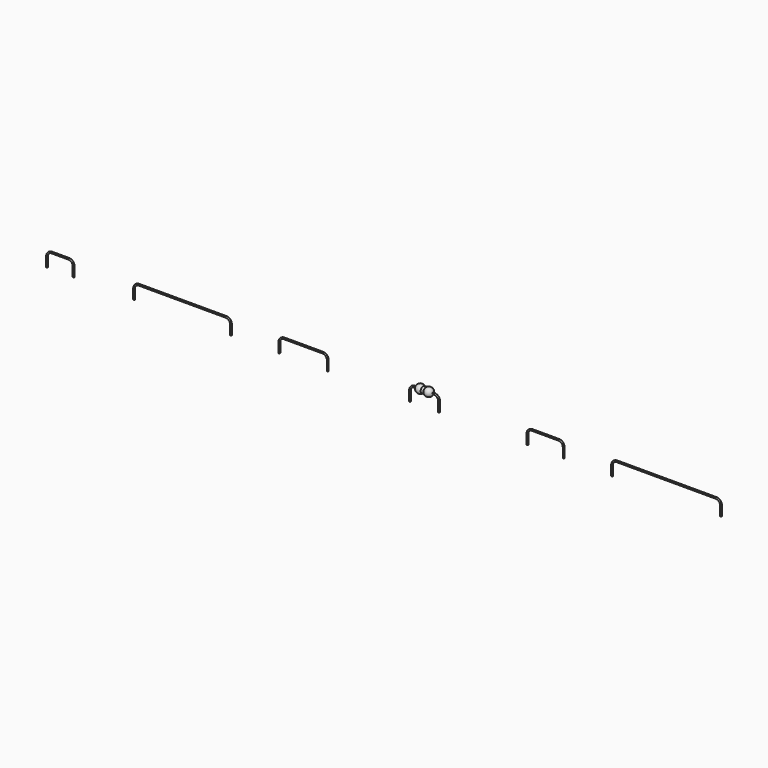
from build123d import *

# Parameters (mm, degrees)
F3_R  = 0.15
F9_R  = 0.15
F10_R = 0.15
F17_R = 0.15
F18_R = 0.15
F23_R = 0.15


with BuildPart() as f1:
    # F0 (on Front) → F1 (revolve)
    with BuildSketch(Plane.XZ):
        with BuildLine():
            ThreePointArc((-0.2892312743, 0.65), (-1.2307227607, 0.7994287445), (-1.75, 0))
            Line((-1.75, 0), (-0.875, 0))
            Line((-0.875, 0), (-0.875, 0.65))
            Line((-0.875, 0.65), (-0.2892312743, 0.65))
        make_face()
        with BuildLine():
            Line((-0.875, 0), (0, 0))
            ThreePointArc((0, 0), (-0.0755712555, 0.3557227607), (-0.2892312743, 0.65))
            Line((-0.2892312743, 0.65), (-0.875, 0.65))
            Line((-0.875, 0.65), (-0.875, 0))
        make_face()
        with BuildLine():
            Line((0, 0), (0.875, 0))
            Line((0.875, 0), (0.875, 0.65))
            Line((0.875, 0.65), (0.2892312743, 0.65))
            ThreePointArc((0.2892312743, 0.65), (0.0755712555, 0.3557227607), (0, 0))
        make_face()
        with BuildLine():
            Line((0.875, 0.65), (0.875, 0))
            Line((0.875, 0), (1.75, 0))
            ThreePointArc((1.75, 0), (1.2307227607, 0.7994287445), (0.2892312743, 0.65))
            Line((0.2892312743, 0.65), (0.875, 0.65))
        make_face()
        with BuildLine():
            ThreePointArc((-0.2892312743, 0.65), (-0.0755712555, 0.3557227607), (0, 0))
            ThreePointArc((0, 0), (0.0755712555, 0.3557227607), (0.2892312743, 0.65))
            Line((0.2892312743, 0.65), (-0.2892312743, 0.65))
        make_face()
    revolve(axis=Axis((0, 0, 0), (1, 0, 0)))


with BuildPart() as f4:
    # F4: sweep along a path in F2
    with BuildLine(Plane.XZ) as f4_path:
        Line((3, -3), (3, -1))
        ThreePointArc((3, -1), (2.7071067812, -0.2928932188), (2, 0))
        Line((2, 0), (0, 0))
        Line((0, 0), (-2, 0))
        ThreePointArc((-2, 0), (-2.7071067812, -0.2928932188), (-3, -1))
        Line((-3, -1), (-3, -3))
    # F3 (on Right) → F4 (sweep)
    with BuildSketch(Plane.YZ):
        Circle(F3_R)
    sweep(path=f4_path.line)


with BuildPart() as f11:
    # F11: sweep along a path in F7
    with BuildLine(Plane.XZ) as f11_path:
        Line((21.25, -3), (21.25, -1))
        ThreePointArc((21.25, -1), (21.5428932188, -0.2928932188), (22.25, 0))
        Line((22.25, 0), (25, 0))
        Line((25, 0), (27.75, 0))
        ThreePointArc((27.75, 0), (28.4571067812, -0.2928932188), (28.75, -1))
        Line((28.75, -1), (28.75, -3))
    # F9 (on offset) → F11 (sweep)
    with BuildSketch(Plane.YZ.offset(25)):
        Circle(F9_R)
    sweep(path=f11_path.line)


with BuildPart() as f12:
    # F12: sweep along a path in F8
    with BuildLine(Plane.XZ) as f12_path:
        Line((38.75, -3), (38.75, -1))
        ThreePointArc((38.75, -1), (39.0428932188, -0.2928932188), (39.75, 0))
        Line((39.75, 0), (50, 0))
        Line((50, 0), (60.25, 0))
        ThreePointArc((60.25, 0), (60.9571067812, -0.2928932188), (61.25, -1))
        Line((61.25, -1), (61.25, -3))
    # F10 (on offset) → F12 (sweep)
    with BuildSketch(Plane.YZ.offset(50)):
        Circle(F10_R)
    sweep(path=f12_path.line)


with BuildPart() as f19:
    # F19: sweep along a path in F15
    with BuildLine(Plane.XZ) as f19_path:
        Line((-30, -3), (-30, -1))
        ThreePointArc((-30, -1), (-29.7071067812, -0.2928932188), (-29, 0))
        Line((-29, 0), (-25, 0))
        Line((-25, 0), (-21, 0))
        ThreePointArc((-21, 0), (-20.2928932188, -0.2928932188), (-20, -1))
        Line((-20, -1), (-20, -3))
    # F17 (on offset) → F19 (sweep)
    with BuildSketch(Plane.YZ.offset(-25)):
        Circle(F17_R)
    sweep(path=f19_path.line)


with BuildPart() as f20:
    # F20: sweep along a path in F16
    with BuildLine(Plane.XZ) as f20_path:
        Line((-60, -3), (-60, -1))
        ThreePointArc((-60, -1), (-59.7071067812, -0.2928932188), (-59, 0))
        Line((-59, 0), (-50, 0))
        Line((-50, 0), (-41, 0))
        ThreePointArc((-41, 0), (-40.2928932188, -0.2928932188), (-40, -1))
        Line((-40, -1), (-40, -3))
    # F18 (on offset) → F20 (sweep)
    with BuildSketch(Plane.YZ.offset(-50)):
        Circle(F18_R)
    sweep(path=f20_path.line)


with BuildPart() as f24:
    # F24: sweep along a path in F22
    with BuildLine(Plane.XZ) as f24_path:
        Line((-78, -3), (-78, -1))
        ThreePointArc((-78, -1), (-77.7071067812, -0.2928932188), (-77, 0))
        Line((-77, 0), (-75, 0))
        Line((-75, 0), (-73.5, 0))
        ThreePointArc((-73.5, 0), (-72.7928932188, -0.2928932188), (-72.5, -1))
        Line((-72.5, -1), (-72.5, -3))
    # F23 (on offset) → F24 (sweep)
    with BuildSketch(Plane.YZ.offset(-75)):
        Circle(F23_R)
    sweep(path=f24_path.line)


solid = Compound([f1.part, f4.part, f11.part, f12.part, f19.part, f20.part, f24.part])
